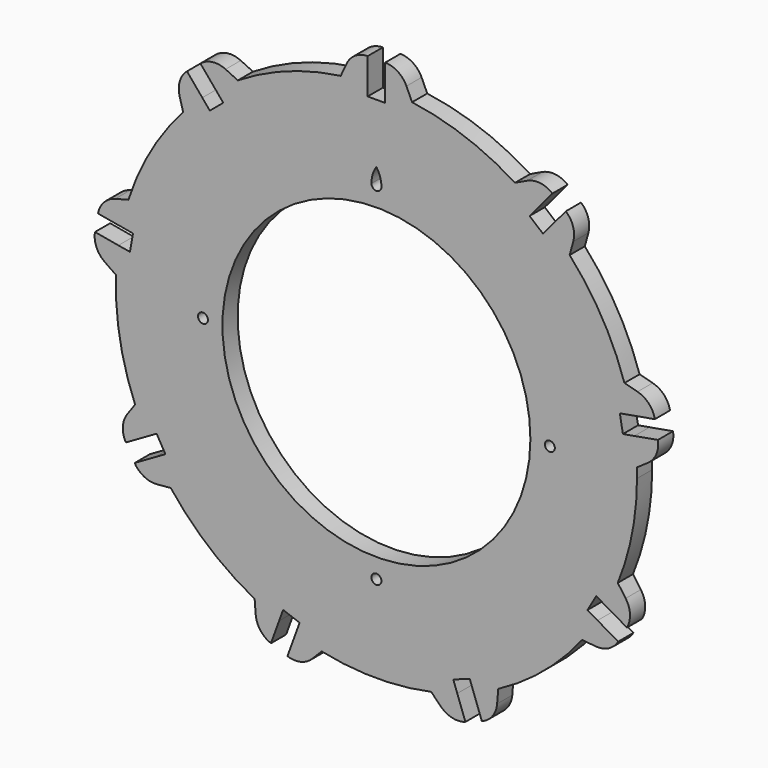
from build123d import *

# Parameters (mm, degrees)
F0_R     = 1.3335
F0_R_2   = 41.275
F1_DEPTH = 5.08


with BuildPart() as f1:
    # F0 (on Front) → F1 (new body)
    with BuildSketch(Plane.XZ):
        with BuildLine():
            ThreePointArc((64.703313688, -26.3154649928), (68.5512544054, -13.4070138154), (69.85, 0))
            ThreePointArc((69.85, 0), (69.8379103341, 1.2995307458), (69.8016455216, 2.5986116451))
            ThreePointArc((69.8016455216, 2.5986116451), (69.5732263207, 6.2119786965), (69.1578829213, 9.8086558631))
            Line((69.1578829213, 9.8086558631), (66.0700433255, 9.2641864302))
            Line((66.0700433255, 9.2641864302), (65.2540705387, 13.8917980616))
            Line((65.2540705387, 13.8917980616), (68.3419101345, 14.4362674945))
            ThreePointArc((68.3419101345, 14.4362674945), (67.502069222, 17.9580942962), (66.4808687426, 21.4316726185))
            ThreePointArc((66.4808687426, 21.4316726185), (60.4918744543, 34.925), (51.8008073045, 46.8582848875))
            ThreePointArc((51.8008073045, 46.8582848875), (49.3032004751, 49.4794596061), (46.6731294533, 51.9676965724))
            Line((46.6731294533, 51.9676965724), (44.657685295, 49.565783756))
            Line((44.657685295, 49.565783756), (41.0580424567, 52.5862427339))
            Line((41.0580424567, 52.5862427339), (43.0734866151, 54.9881555503))
            ThreePointArc((43.0734866151, 54.9881555503), (40.1663445193, 57.1461920687), (37.15128646, 59.1506924251))
            ThreePointArc((37.15128646, 59.1506924251), (23.8901070113, 65.6375295619), (9.5617956478, 69.1924458593))
            ThreePointArc((9.5617956478, 69.1924458593), (5.9636591831, 69.5949514631), (2.3495, 69.8104744988))
            Line((2.3495, 69.8104744988), (2.3495, 66.675))
            Line((2.3495, 66.675), (-2.3495, 66.675))
            Line((-2.3495, 66.675), (-2.3495, 69.8104744988))
            ThreePointArc((-2.3495, 69.8104744988), (-5.9636591831, 69.5949514631), (-9.5617956478, 69.1924458593))
            ThreePointArc((-9.5617956478, 69.1924458593), (-23.8901070113, 65.6375295619), (-37.15128646, 59.1506924251))
            ThreePointArc((-37.15128646, 59.1506924251), (-40.1663445193, 57.1461920687), (-43.0734866151, 54.9881555503))
            Line((-43.0734866151, 54.9881555503), (-41.0580424567, 52.5862427339))
            Line((-41.0580424567, 52.5862427339), (-44.657685295, 49.565783756))
            Line((-44.657685295, 49.565783756), (-46.6731294533, 51.9676965724))
            ThreePointArc((-46.6731294533, 51.9676965724), (-49.3032004751, 49.4794596061), (-51.8008073045, 46.8582848875))
            ThreePointArc((-51.8008073045, 46.8582848875), (-60.4918744543, 34.925), (-66.4808687426, 21.4316726185))
            ThreePointArc((-66.4808687426, 21.4316726185), (-67.502069222, 17.9580942962), (-68.3419101345, 14.4362674945))
            Line((-68.3419101345, 14.4362674945), (-65.2540705387, 13.8917980616))
            Line((-65.2540705387, 13.8917980616), (-66.0700433255, 9.2641864302))
            Line((-66.0700433255, 9.2641864302), (-69.1578829213, 9.8086558631))
            ThreePointArc((-69.1578829213, 9.8086558631), (-69.5732263207, 6.2119786965), (-69.8016455216, 2.5986116451))
            ThreePointArc((-69.8016455216, 2.5986116451), (-68.7888215479, -12.12932521), (-64.703313688, -26.3154649928))
            ThreePointArc((-64.703313688, -26.3154649928), (-63.2528255337, -29.6327953794), (-61.6323943662, -32.8705105632))
            Line((-61.6323943662, -32.8705105632), (-58.9169937973, -31.3027733138))
            Line((-58.9169937973, -31.3027733138), (-56.5674937973, -35.3722266862))
            Line((-56.5674937973, -35.3722266862), (-59.2828943662, -36.9399639356))
            ThreePointArc((-59.2828943662, -36.9399639356), (-57.2891663506, -39.9621560836), (-55.1415180402, -42.8769808665))
            ThreePointArc((-55.1415180402, -42.8769808665), (-44.8987145366, -53.5082043519), (-32.6503590616, -61.7493040702))
            ThreePointArc((-32.6503590616, -61.7493040702), (-29.4068818014, -63.3581707653), (-26.0843963063, -64.7968114134))
            Line((-26.0843963063, -64.7968114134), (-25.0120008688, -61.8504291642))
            Line((-25.0120008688, -61.8504291642), (-20.5963852437, -63.4575818176))
            Line((-20.5963852437, -63.4575818176), (-21.6687806812, -66.4039640668))
            ThreePointArc((-21.6687806812, -66.4039640668), (-18.1988687469, -67.4375539024), (-14.6800614381, -68.289957506))
            ThreePointArc((-14.6800614381, -68.289957506), (0, -69.85), (14.6800614381, -68.289957506))
            ThreePointArc((14.6800614381, -68.289957506), (18.1988687469, -67.4375539024), (21.6687806812, -66.4039640668))
            Line((21.6687806812, -66.4039640668), (20.5963852437, -63.4575818176))
            Line((20.5963852437, -63.4575818176), (25.0120008688, -61.8504291642))
            Line((25.0120008688, -61.8504291642), (26.0843963063, -64.7968114134))
            ThreePointArc((26.0843963063, -64.7968114134), (29.4068818014, -63.3581707653), (32.6503590616, -61.7493040702))
            ThreePointArc((32.6503590616, -61.7493040702), (44.8987145366, -53.5082043519), (55.1415180402, -42.8769808665))
            ThreePointArc((55.1415180402, -42.8769808665), (57.2891663506, -39.9621560836), (59.2828943662, -36.9399639356))
            Line((59.2828943662, -36.9399639356), (56.5674937973, -35.3722266862))
            Line((56.5674937973, -35.3722266862), (58.9169937973, -31.3027733138))
            Line((58.9169937973, -31.3027733138), (61.6323943662, -32.8705105632))
            ThreePointArc((61.6323943662, -32.8705105632), (63.2528255337, -29.6327953794), (64.703313688, -26.3154649928))
        make_face()
        with Locations((0, -46.4947)):
            Circle(F0_R, mode=Mode.SUBTRACT)
        with Locations((-46.4947, 0)):
            Circle(F0_R, mode=Mode.SUBTRACT)
        Circle(F0_R_2, mode=Mode.SUBTRACT)
        with Locations((46.4947, 0)):
            Circle(F0_R, mode=Mode.SUBTRACT)
        with BuildLine():
            ThreePointArc((1.3333628788, 46.4755771511), (0, 45.1612), (-1.3333628788, 46.4755771511))
            ThreePointArc((-1.3333628788, 46.4755771511), (-1.0083284803, 48.7431296807), (0, 50.8))
            ThreePointArc((0, 50.8), (1.0083284803, 48.7431296807), (1.3333628788, 46.4755771511))
        make_face(mode=Mode.SUBTRACT)
        with BuildLine():
            ThreePointArc((-43.0734866151, 54.9881555503), (-40.1663445193, 57.1461920687), (-37.15128646, 59.1506924251))
            Line((-37.15128646, 59.1506924251), (-40.4344191153, 60.7079840043))
            ThreePointArc((-40.4344191153, 60.7079840043), (-43.9270989611, 61.2736681367), (-47.1803151418, 59.8824832012))
            Line((-47.1803151418, 59.8824832012), (-43.0734866151, 54.9881555503))
        make_face()
        with BuildLine():
            ThreePointArc((-51.8008073045, 46.8582848875), (-49.3032004751, 49.4794596061), (-46.6731294533, 51.9676965724))
            Line((-46.6731294533, 51.9676965724), (-50.7799579801, 56.8620242233))
            ThreePointArc((-50.7799579801, 56.8620242233), (-52.7149227517, 53.8998084352), (-52.7643301228, 50.3619602255))
            Line((-52.7643301228, 50.3619602255), (-51.8008073045, 46.8582848875))
        make_face()
        with BuildLine():
            ThreePointArc((-9.5617956478, 69.1924458593), (-5.9636591831, 69.5949514631), (-2.3495, 69.8104744988))
            Line((-2.3495, 69.8104744988), (-2.3495, 76.1995654907))
            ThreePointArc((-2.3495, 76.1995654907), (-5.7358446168, 75.1741479273), (-8.047777853, 72.4957574116))
            Line((-8.047777853, 72.4957574116), (-9.5617956478, 69.1924458593))
        make_face()
        with BuildLine():
            ThreePointArc((2.3495, 69.8104744988), (5.9636591831, 69.5949514631), (9.5617956478, 69.1924458593))
            Line((9.5617956478, 69.1924458593), (8.047777853, 72.4957574116))
            ThreePointArc((8.047777853, 72.4957574116), (5.7358446168, 75.1741479273), (2.3495, 76.1995654907))
            Line((2.3495, 76.1995654907), (2.3495, 69.8104744988))
        make_face()
        with BuildLine():
            ThreePointArc((37.15128646, 59.1506924251), (40.1663445193, 57.1461920687), (43.0734866151, 54.9881555503))
            Line((43.0734866151, 54.9881555503), (47.1803151418, 59.8824832012))
            ThreePointArc((47.1803151418, 59.8824832012), (43.9270989611, 61.2736681367), (40.4344191153, 60.7079840043))
            Line((40.4344191153, 60.7079840043), (37.15128646, 59.1506924251))
        make_face()
        with BuildLine():
            ThreePointArc((46.6731294533, 51.9676965724), (49.3032004751, 49.4794596061), (51.8008073045, 46.8582848875))
            Line((51.8008073045, 46.8582848875), (52.7643301228, 50.3619602255))
            ThreePointArc((52.7643301228, 50.3619602255), (52.7149227517, 53.8998084352), (50.7799579801, 56.8620242233))
            Line((50.7799579801, 56.8620242233), (46.6731294533, 51.9676965724))
        make_face()
        with BuildLine():
            ThreePointArc((66.4808687426, 21.4316726185), (67.502069222, 17.9580942962), (68.3419101345, 14.4362674945))
            Line((68.3419101345, 14.4362674945), (74.633936478, 15.5457215022))
            ThreePointArc((74.633936478, 15.5457215022), (73.0360647398, 18.7025580439), (69.996902001, 20.5142701873))
            Line((69.996902001, 20.5142701873), (66.4808687426, 21.4316726185))
        make_face()
        with BuildLine():
            ThreePointArc((69.1578829213, 9.8086558631), (69.5732263207, 6.2119786965), (69.8016455216, 2.5986116451))
            Line((69.8016455216, 2.5986116451), (72.7918659179, 4.663242139))
            ThreePointArc((72.7918659179, 4.663242139), (75.02810267, 7.4051495465), (75.4499092649, 10.9181098708))
            Line((75.4499092649, 10.9181098708), (69.1578829213, 9.8086558631))
        make_face()
        with BuildLine():
            Line((66.8070565116, -29.2782986411), (64.703313688, -26.3154649928))
            ThreePointArc((64.703313688, -26.3154649928), (63.2528255337, -29.6327953794), (61.6323943662, -32.8705105632))
            Line((61.6323943662, -32.8705105632), (67.1655094723, -36.0650560592))
            ThreePointArc((67.1655094723, -36.0650560592), (67.9706441213, -32.6196868133), (66.8070565116, -29.2782986411))
        make_face()
        with BuildLine():
            Line((64.8160094723, -40.1345094316), (59.2828943662, -36.9399639356))
            ThreePointArc((59.2828943662, -36.9399639356), (57.2891663506, -39.9621560836), (55.1415180402, -42.8769808665))
            Line((55.1415180402, -42.8769808665), (58.7592786586, -43.2174587705))
            ThreePointArc((58.7592786586, -43.2174587705), (62.2347995045, -42.554461114), (64.8160094723, -40.1345094316))
        make_face()
        with BuildLine():
            Line((23.853978498, -72.4077457255), (21.6687806812, -66.4039640668))
            ThreePointArc((21.6687806812, -66.4039640668), (18.1988687469, -67.4375539024), (14.6800614381, -68.289957506))
            Line((14.6800614381, -68.289957506), (17.2325718782, -70.8762304127))
            ThreePointArc((17.2325718782, -70.8762304127), (20.3211419881, -72.6023664791), (23.853978498, -72.4077457255))
        make_face()
        with BuildLine():
            Line((32.3574468026, -65.3712261433), (32.6503590616, -61.7493040702))
            ThreePointArc((32.6503590616, -61.7493040702), (29.4068818014, -63.3581707653), (26.0843963063, -64.7968114134))
            Line((26.0843963063, -64.7968114134), (28.269594123, -70.800593072))
            ThreePointArc((28.269594123, -70.800593072), (31.1010037089, -68.6788176832), (32.3574468026, -65.3712261433))
        make_face()
        with BuildLine():
            Line((-28.269594123, -70.800593072), (-26.0843963063, -64.7968114134))
            ThreePointArc((-26.0843963063, -64.7968114134), (-29.4068818014, -63.3581707653), (-32.6503590616, -61.7493040702))
            Line((-32.6503590616, -61.7493040702), (-32.3574468026, -65.3712261433))
            ThreePointArc((-32.3574468026, -65.3712261433), (-31.1010037089, -68.6788176832), (-28.269594123, -70.800593072))
        make_face()
        with BuildLine():
            Line((-17.2325718782, -70.8762304127), (-14.6800614381, -68.289957506))
            ThreePointArc((-14.6800614381, -68.289957506), (-18.1988687469, -67.4375539024), (-21.6687806812, -66.4039640668))
            Line((-21.6687806812, -66.4039640668), (-23.853978498, -72.4077457255))
            ThreePointArc((-23.853978498, -72.4077457255), (-20.3211419881, -72.6023664791), (-17.2325718782, -70.8762304127))
        make_face()
        with BuildLine():
            Line((-58.7592786586, -43.2174587705), (-55.1415180402, -42.8769808665))
            ThreePointArc((-55.1415180402, -42.8769808665), (-57.2891663506, -39.9621560836), (-59.2828943662, -36.9399639356))
            Line((-59.2828943662, -36.9399639356), (-64.8160094723, -40.1345094316))
            ThreePointArc((-64.8160094723, -40.1345094316), (-62.2347995045, -42.554461114), (-58.7592786586, -43.2174587705))
        make_face()
        with BuildLine():
            Line((-67.1655094723, -36.0650560592), (-61.6323943662, -32.8705105632))
            ThreePointArc((-61.6323943662, -32.8705105632), (-63.2528255337, -29.6327953794), (-64.703313688, -26.3154649928))
            Line((-64.703313688, -26.3154649928), (-66.8070565116, -29.2782986411))
            ThreePointArc((-66.8070565116, -29.2782986411), (-67.9706441213, -32.6196868133), (-67.1655094723, -36.0650560592))
        make_face()
        with BuildLine():
            Line((-72.7918659179, 4.663242139), (-69.8016455216, 2.5986116451))
            ThreePointArc((-69.8016455216, 2.5986116451), (-69.5732263207, 6.2119786965), (-69.1578829213, 9.8086558631))
            Line((-69.1578829213, 9.8086558631), (-75.4499092649, 10.9181098708))
            ThreePointArc((-75.4499092649, 10.9181098708), (-75.02810267, 7.4051495465), (-72.7918659179, 4.663242139))
        make_face()
        with BuildLine():
            ThreePointArc((-68.3419101345, 14.4362674945), (-67.502069222, 17.9580942962), (-66.4808687426, 21.4316726185))
            Line((-66.4808687426, 21.4316726185), (-69.996902001, 20.5142701873))
            ThreePointArc((-69.996902001, 20.5142701873), (-73.0360647398, 18.7025580439), (-74.633936478, 15.5457215022))
            Line((-74.633936478, 15.5457215022), (-68.3419101345, 14.4362674945))
        make_face()
    extrude(amount=F1_DEPTH)


solid = f1.part
